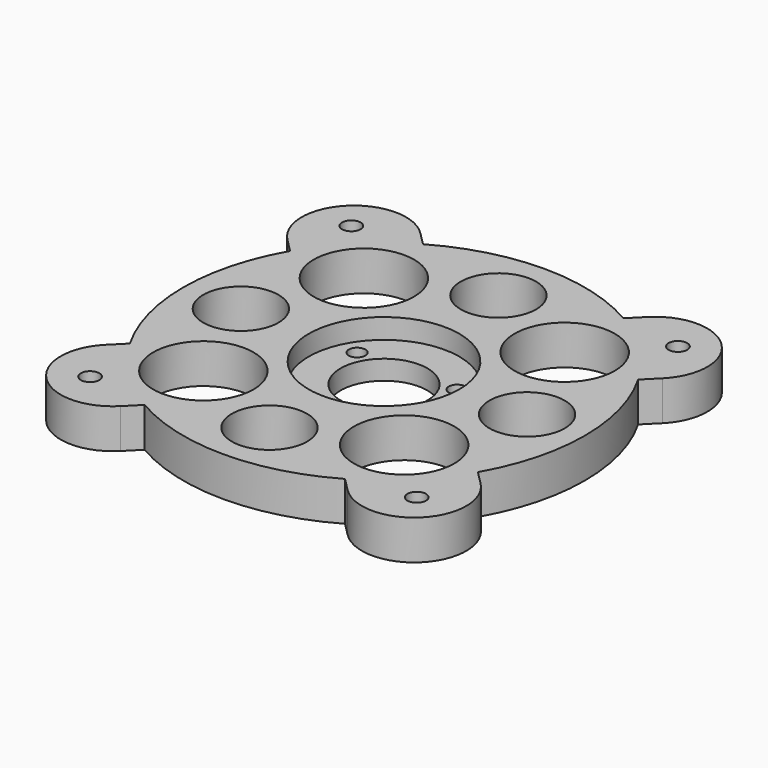
from build123d import *

# Parameters (mm, degrees)
F0_R     = 2.3495
F0_R_2   = 9.525
F0_R_3   = 12.7
F0_R_4   = 2.0955
F0_R_5   = 10.9855
F1_DEPTH = 5
F2_R     = 19.05
F3_DEPTH = 5.08


with BuildPart() as f1:
    # F0 (on Top) → F1 (new body, symmetric)
    with BuildSketch(Plane.XY):
        with BuildLine():
            Line((-47.439466, 28.760534), (-44.025117, 25.346184))
            ThreePointArc((-44.025117, 25.346184), (-50.8, 0), (-44.025117, -25.346184))
            Line((-44.025117, -25.346184), (-47.439466, -28.760534))
            ThreePointArc((-47.439466, -28.760534), (-47.439466, -47.439466), (-28.760534, -47.439466))
            Line((-28.760534, -47.439466), (-25.346184, -44.025117))
            ThreePointArc((-25.346184, -44.025117), (0, -50.8), (25.346184, -44.025117))
            Line((25.346184, -44.025117), (28.760534, -47.439466))
            ThreePointArc((28.760534, -47.439466), (47.439466, -47.439466), (47.439466, -28.760534))
            Line((47.439466, -28.760534), (44.025117, -25.346184))
            ThreePointArc((44.025117, -25.346184), (50.8, 0), (44.025117, 25.346184))
            Line((44.025117, 25.346184), (47.439466, 28.760534))
            ThreePointArc((47.439466, 28.760534), (47.439466, 47.439466), (28.760534, 47.439466))
            Line((28.760534, 47.439466), (25.346184, 44.025117))
            ThreePointArc((25.346184, 44.025117), (0, 50.8), (-25.346184, 44.025117))
            Line((-25.346184, 44.025117), (-28.760534, 47.439466))
            ThreePointArc((-28.760534, 47.439466), (-47.439466, 47.439466), (-47.439466, 28.760534))
        make_face()
        with Locations((-41.304177, -41.314179)):
            Circle(F0_R, mode=Mode.SUBTRACT)
        with Locations((-36.206166, -0.017254)):
            Circle(F0_R_2, mode=Mode.SUBTRACT)
        with Locations((-25.384562, -25.40427)):
            Circle(F0_R_3, mode=Mode.SUBTRACT)
        with Locations((0.006088, -36.217333)):
            Circle(F0_R_2, mode=Mode.SUBTRACT)
        with Locations((41.314179, -41.304177)):
            Circle(F0_R, mode=Mode.SUBTRACT)
        with Locations((0, -14.605)):
            Circle(F0_R_4, mode=Mode.SUBTRACT)
        with Locations((25.40427, -25.384562)):
            Circle(F0_R_3, mode=Mode.SUBTRACT)
        with Locations((36.206166, -0.005079)):
            Circle(F0_R_2, mode=Mode.SUBTRACT)
        with Locations((-12.648301, 7.3025)):
            Circle(F0_R_4, mode=Mode.SUBTRACT)
        with Locations((-25.40427, 25.384562)):
            Circle(F0_R_3, mode=Mode.SUBTRACT)
        with Locations((-41.314179, 41.304177)):
            Circle(F0_R, mode=Mode.SUBTRACT)
        with Locations((-0.006088, 36.195)):
            Circle(F0_R_2, mode=Mode.SUBTRACT)
        Circle(F0_R_5, mode=Mode.SUBTRACT)
        with Locations((12.648301, 7.3025)):
            Circle(F0_R_4, mode=Mode.SUBTRACT)
        with Locations((25.384562, 25.40427)):
            Circle(F0_R_3, mode=Mode.SUBTRACT)
        with Locations((41.304177, 41.314179)):
            Circle(F0_R, mode=Mode.SUBTRACT)
    extrude(amount=F1_DEPTH, both=True)

    # F2 (on face) → F3 (cut)
    with BuildSketch(Plane.XY.offset(5)):
        Circle(F2_R)
    extrude(amount=-F3_DEPTH, mode=Mode.SUBTRACT)


solid = f1.part
